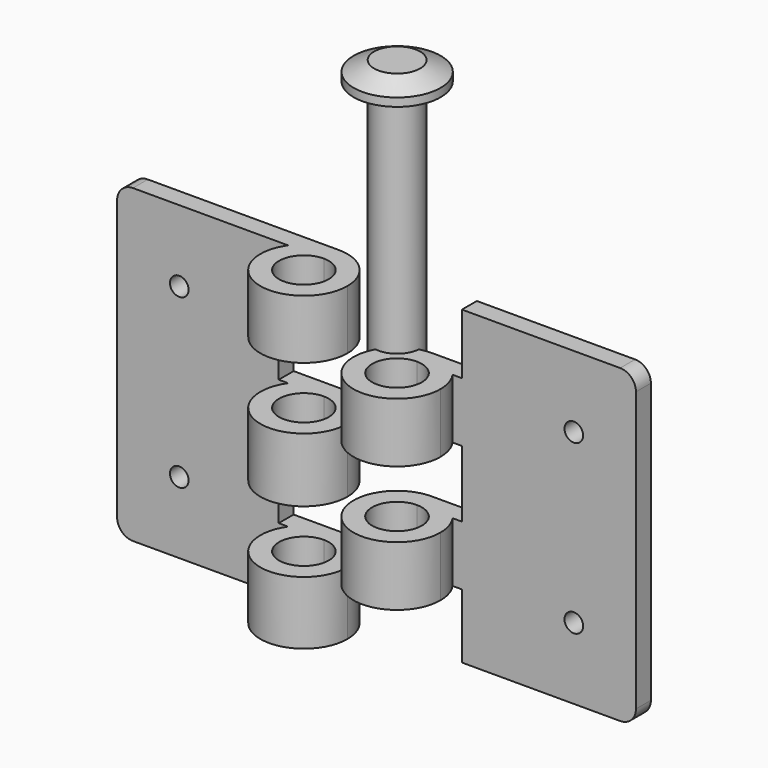
from build123d import *

# Parameters (mm, degrees)
F0_W      = 33.25
F0_H      = 50
F1_DEPTH  = 3
F3_DEPTH  = 50
F5_R      = 2.54
F6_W      = 7.25
F6_H      = 10
F7_DEPTH  = 25.4
F8_W      = 35.25
F8_H      = 50
F9_DEPTH  = 3
F11_DEPTH = 50
F12_W     = 7.25
F12_H     = 9.72
F12_H_2   = 10.72
F12_H_3   = 10.36
F13_DEPTH = 25.4
F17_R     = 2.54
F4_R      = 1.5
F18_DEPTH = 3
F16_R     = 1.5
F19_DEPTH = 3


with BuildPart() as f1:
    # F0 (on Front) → F1 (new body)
    with BuildSketch(Plane.XZ):
        with Locations((-27.9855814096, 12.2281981356)):
            Rectangle(F0_W, F0_H)
    extrude(amount=F1_DEPTH)

    # F2 (on face) → F3 (join, through all)
    with BuildSketch(Plane.XY.offset(37.2281981356)):
        with BuildLine():
            ThreePointArc((-17.1051440562, -3), (-13.4567757559, -13.6787700412), (-4.3605814096, -7))
            ThreePointArc((-4.3605814096, -7), (-6.4108339413, -2.0502525317), (-11.3605814096, 0))
            Line((-11.3605814096, 0), (-11.3605814096, -3))
            Line((-11.3605814096, -3), (-17.1051440562, -3))
        make_face()
        with BuildLine():
            ThreePointArc((-7.3605814096, -7), (-14.1890085344, -9.8284271247), (-11.3605814096, -3))
            ThreePointArc((-11.3605814096, -3), (-8.5321542849, -4.1715728753), (-7.3605814096, -7))
        make_face(mode=Mode.SUBTRACT)
        with BuildLine():
            Line((-11.3605814096, -3), (-11.3605814096, 0))
            ThreePointArc((-11.3605814096, 0), (-14.6009517588, -0.795163177), (-17.1051440562, -3))
            Line((-17.1051440562, -3), (-11.3605814096, -3))
        make_face()
    extrude(amount=-F3_DEPTH)

    # F5
    f5_edges = [f1.edges().sort_by_distance(p)[0] for p in [
        (-44.610581, -1.5, 37.228198),
        (-44.610581, -1.5, -12.771802),
    ]]
    fillet(f5_edges, radius=F5_R)

    # F6 (on face) → F7 (cut)
    with BuildSketch(Plane.XZ):
        with Locations((-14.9855814096, 22.7081981356)):
            Rectangle(F6_W, F6_H)
        with Locations((-7.7355814096, 22.7081981356)):
            Rectangle(F6_W, F6_H)
        with Locations((-14.9855814096, 2.3881981356)):
            Rectangle(F6_W, F6_H)
        with Locations((-7.7355814096, 2.3881981356)):
            Rectangle(F6_W, F6_H)
    extrude(amount=F7_DEPTH, mode=Mode.SUBTRACT)

    # F4 (on face) → F18 (cut)
    with BuildSketch(Plane.XZ.offset(3)):
        with Locations((-34.6105814096, -1.2718018644)):
            Circle(F4_R)
        with Locations((-34.6105814096, 25.7281981356)):
            Circle(F4_R)
    extrude(amount=-F18_DEPTH, mode=Mode.SUBTRACT)


with BuildPart() as f9:
    # F8 (on Front) → F9 (new body)
    with BuildSketch(Plane.XZ):
        with Locations((21.2460542523, 12.2281981356)):
            Rectangle(F8_W, F8_H)
    extrude(amount=F9_DEPTH)

    # F10 (on face) → F11 (join, through all)
    with BuildSketch(Plane.XY.offset(37.2281981356)):
        with BuildLine():
            Line((3.6210542523, -3), (3.6210542523, 0))
            ThreePointArc((3.6210542523, 0), (-1.328693216, -11.9497474683), (10.6210542523, -7))
            ThreePointArc((10.6210542523, -7), (10.2998242935, -4.9038056538), (9.3656168989, -3))
            Line((9.3656168989, -3), (3.6210542523, -3))
        make_face()
        with BuildLine():
            ThreePointArc((7.6210542523, -7), (0.7926271276, -9.8284271247), (3.6210542523, -3))
            ThreePointArc((3.6210542523, -3), (6.4494813771, -4.1715728753), (7.6210542523, -7))
        make_face(mode=Mode.SUBTRACT)
        with BuildLine():
            Line((3.6210542523, -3), (3.6210542523, 0))
            ThreePointArc((3.6210542523, 0), (-1.328693216, -11.9497474683), (10.6210542523, -7))
            ThreePointArc((10.6210542523, -7), (10.2998242935, -4.9038056538), (9.3656168989, -3))
            Line((9.3656168989, -3), (3.6210542523, -3))
        make_face()
        with BuildLine():
            ThreePointArc((7.6210542523, -7), (0.7926271276, -9.8284271247), (3.6210542523, -3))
            ThreePointArc((3.6210542523, -3), (6.4494813771, -4.1715728753), (7.6210542523, -7))
        make_face(mode=Mode.SUBTRACT)
    extrude(amount=-F11_DEPTH)

    # F12 (on face) → F13 (cut)
    with BuildSketch(Plane(origin=(0, 0, 0), x_dir=(-1, 0, 0), z_dir=(0, 1, 0))):
        with Locations((0.0039457477, 32.3681981356)):
            Rectangle(F12_W, F12_H)
        with Locations((-7.2460542523, 32.3681981356)):
            Rectangle(F12_W, F12_H)
        with Locations((-7.2460542523, 12.5481981356)):
            Rectangle(F12_W, F12_H_2)
        with Locations((0.0039457477, 12.5481981356)):
            Rectangle(F12_W, F12_H_2)
        with Locations((0.0039457477, -7.5918018644)):
            Rectangle(F12_W, F12_H_3)
        with Locations((-7.2460542523, -7.5918018644)):
            Rectangle(F12_W, F12_H_3)
    extrude(amount=-F13_DEPTH, mode=Mode.SUBTRACT)

    # F17
    f17_edges = [f9.edges().sort_by_distance(p)[0] for p in [
        (38.871054, -1.5, 37.228198),
        (38.871054, -1.5, -12.771802),
    ]]
    fillet(f17_edges, radius=F17_R)

    # F16 (on face) → F19 (cut)
    with BuildSketch(Plane.XZ.offset(3)):
        with Locations((28.8710542523, 25.7281981356)):
            Circle(F16_R)
        with Locations((28.8710542523, -1.2718018644)):
            Circle(F16_R)
    extrude(amount=-F19_DEPTH, mode=Mode.SUBTRACT)


with BuildPart() as f15:
    # F14 (on Front) → F15 (revolve)
    with BuildSketch(Plane.XZ):
        Polygon((-8.9555652812, 64.1912163931), (-5.6555652812, 64.1912163931), (-5.6555652812, 14.1912163931), (-1.9555652812, 14.1912163931), (-1.9555652812, 67.1912163931), (-5.6555652812, 67.1912163931), (-8.9555652812, 65.5202418566), align=None)
    revolve(axis=Axis((-1.9555652812, 0, 40.6912163931), (0, 0, 1)))


solid = Compound([f1.part, f9.part, f15.part])
